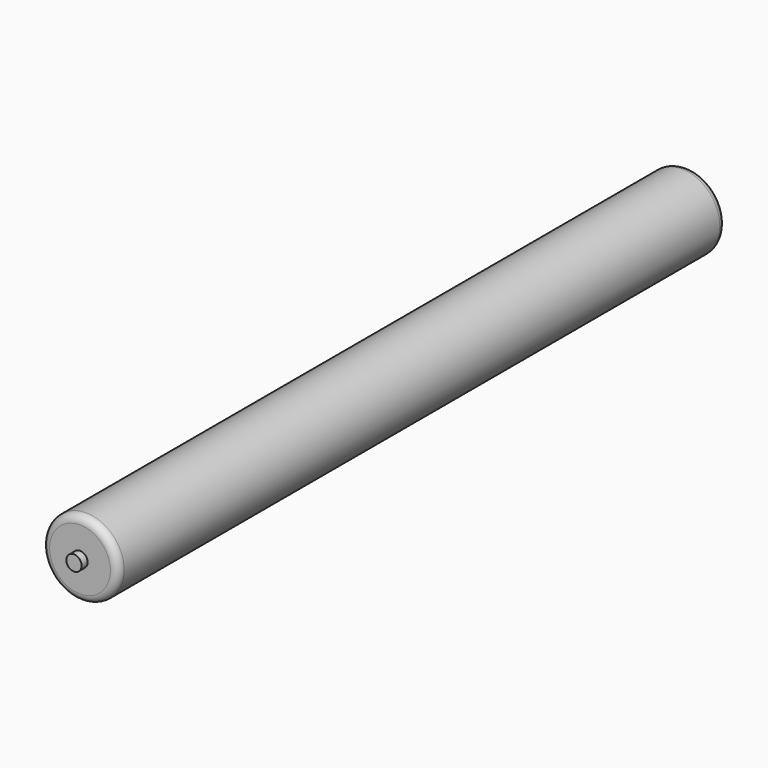
from build123d import *

# Parameters (mm, degrees)
F0_R     = 25
F1_DEPTH = 500
F2_R     = 5
F3_DEPTH = 5
F4_R     = 5
F5_DEPTH = 5
F6_R     = 5
F7_R     = 5


with BuildPart() as f1:
    # F0 (on Front) → F1 (new body)
    with BuildSketch(Plane.XZ):
        with Locations((41.250005, 34.250002)):
            Circle(F0_R)
    extrude(amount=F1_DEPTH)

    # F2 (on face) → F3 (join)
    with BuildSketch(Plane(origin=(0, 0, 0), x_dir=(-1, 0, 0), z_dir=(0, 1, 0))):
        with Locations((-41.250005, 34.250002)):
            Circle(F2_R)
    extrude(amount=F3_DEPTH)

    # F4 (on face) → F5 (join)
    with BuildSketch(Plane.XZ.offset(500)):
        with Locations((41.250005, 34.250002)):
            Circle(F4_R)
    extrude(amount=F5_DEPTH)

    # F6
    f6_edges = [f1.edges().sort_by_distance(p)[0] for p in [
        (16.250005, 0, 34.250002),
    ]]
    fillet(f6_edges, radius=F6_R)

    # F7
    f7_edges = [f1.edges().sort_by_distance(p)[0] for p in [
        (16.250005, -500, 34.250002),
    ]]
    fillet(f7_edges, radius=F7_R)


solid = f1.part
